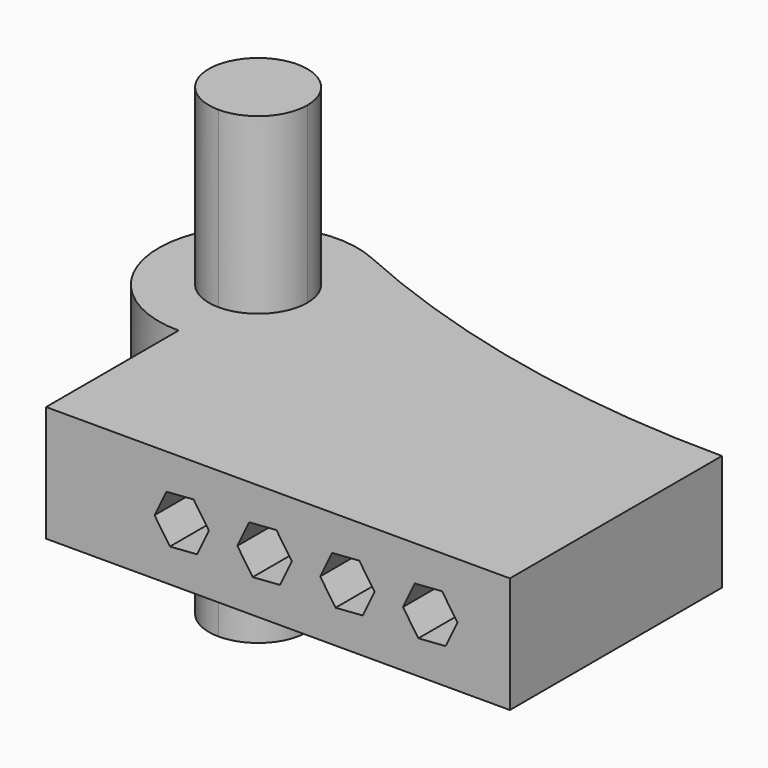
from build123d import *

# Parameters (mm, degrees)
F1_DEPTH = 17.5
F2_DEPTH = 70
F4_DEPTH = 110.001


with BuildPart() as f1:
    # F0 (on Top) → F1 (new body, symmetric)
    with BuildSketch(Plane.XY):
        with BuildLine():
            Line((-70, -40), (70, -40))
            Line((70, -40), (70, 40))
            Line((70, 40), (-40, 40))
            ThreePointArc((-40, 40), (-48.7867965644, 18.7867965644), (-70, 10))
            Line((-70, 10), (-70, -40))
        make_face()
        with BuildLine():
            Line((-40, 40), (70, 40))
            ThreePointArc((70, 40), (4.6967673455, 46.9182476125), (-57.7073170732, 67.3658536585))
            ThreePointArc((-57.7073170732, 67.3658536585), (-44.8128952854, 56.2975383447), (-40, 40))
        make_face()
        with BuildLine():
            ThreePointArc((-57.7073170732, 67.3658536585), (-99.3340724223, 46.2858726619), (-70, 10))
            Line((-70, 10), (-70, 25.1385026563))
            ThreePointArc((-70, 25.1385026563), (-80.5086655503, 50.5086655503), (-55.1385026563, 40))
            Line((-55.1385026563, 40), (-40, 40))
            ThreePointArc((-40, 40), (-44.8128952854, 56.2975383447), (-57.7073170732, 67.3658536585))
        make_face()
        with BuildLine():
            Line((-70, 25.1385026563), (-70, 10))
            ThreePointArc((-70, 10), (-48.7867965644, 18.7867965644), (-40, 40))
            Line((-40, 40), (-55.1385026563, 40))
            ThreePointArc((-55.1385026563, 40), (-59.4913344497, 29.4913344497), (-70, 25.1385026563))
        make_face()
    extrude(amount=F1_DEPTH, both=True)

    # F3 (on face) → F4 (cut, through all)
    with BuildSketch(Plane.XZ.offset(40)):
        Polygon((24.5300985992, 7.4222810249), (16.3126487285, 6.8107596599), (12.7335168302, -0.611521365), (17.3718348026, -7.4222810249), (25.5892846733, -6.8107596599), (29.1684165716, 0.611521365), align=None)
        Polygon((49.5300985992, 7.4222810249), (41.3126487285, 6.8107596599), (37.7335168302, -0.611521365), (42.3718348026, -7.4222810249), (50.5892846733, -6.8107596599), (54.1684165716, 0.611521365), align=None)
        Polygon((-0.4699014008, 7.4222810249), (-8.6873512715, 6.8107596599), (-12.2664831698, -0.611521365), (-7.6281651974, -7.4222810249), (0.5892846733, -6.8107596599), (4.1684165716, 0.611521365), align=None)
        Polygon((-32.6281651974, -7.4222810249), (-24.4107153267, -6.8107596599), (-20.8315834284, 0.611521365), (-25.4699014008, 7.4222810249), (-33.6873512715, 6.8107596599), (-37.2664831698, -0.611521365), align=None)
    extrude(amount=-F4_DEPTH, mode=Mode.SUBTRACT)


with BuildPart() as f2:
    # F0 (on Top) → F2 (new body, symmetric)
    with BuildSketch(Plane.XY):
        with BuildLine():
            ThreePointArc((-55.1385026563, 40), (-80.5086655503, 50.5086655503), (-70, 25.1385026563))
            Line((-70, 25.1385026563), (-70, 40))
            Line((-70, 40), (-55.1385026563, 40))
        make_face()
        with BuildLine():
            Line((-70, 40), (-70, 25.1385026563))
            ThreePointArc((-70, 25.1385026563), (-59.4913344497, 29.4913344497), (-55.1385026563, 40))
            Line((-55.1385026563, 40), (-70, 40))
        make_face()
    extrude(amount=F2_DEPTH, both=True)


solid = Compound([f1.part, f2.part])
